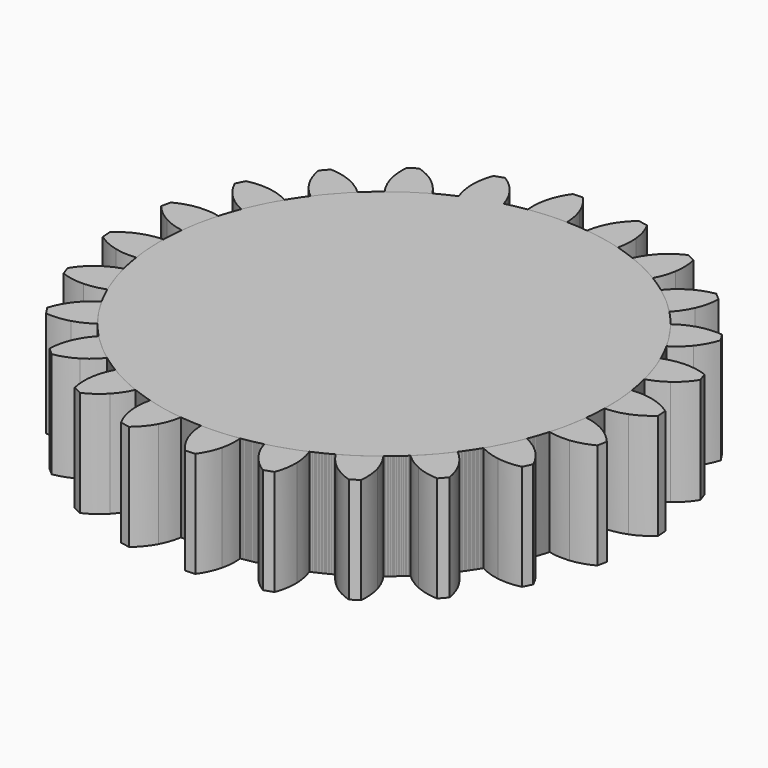
from build123d import *

# Parameters (mm, degrees)
F1_DEPTH = 1
F2_COUNT = 24


with BuildPart() as f1:
    # F0 (on Top) → F1 (new body)
    with BuildSketch(Plane.XY):
        with BuildLine():
            ThreePointArc((-7.156643, 3.463724), (-8.222693, -0.230544), (-4.727638, 1.372164))
            ThreePointArc((-4.727638, 1.372164), (-5.333622, 2.854086), (-6.804323, 3.486817))
            ThreePointArc((-6.804323, 3.486817), (-6.980966, 3.482635), (-7.156643, 3.463724))
        make_face()
        with BuildLine():
            ThreePointArc((-7.156643, 3.463724), (-6.980966, 3.482635), (-6.804323, 3.486817))
            ThreePointArc((-6.804323, 3.486817), (-6.814962, 3.586161), (-6.842638, 3.682164))
            ThreePointArc((-6.842638, 3.682164), (-6.892395, 3.781489), (-6.960324, 3.869392))
            Line((-6.960324, 3.869392), (-7.051912, 3.863389))
            ThreePointArc((-7.051912, 3.863389), (-7.107786, 3.767372), (-7.144153, 3.662401))
            ThreePointArc((-7.144153, 3.662401), (-7.159061, 3.563608), (-7.156643, 3.463724))
        make_face()
    extrude(amount=F1_DEPTH)


with BuildPart() as f2_1:
    # F2: instance of F1
    add(f1.part.rotate(Axis((-6.842638, 1.372164, 0), (0, 0, -1)), 1 * 360 / F2_COUNT))


with BuildPart() as f2_2:
    # F2: instance of F1
    add(f1.part.rotate(Axis((-6.842638, 1.372164, 0), (0, 0, -1)), 2 * 360 / F2_COUNT))


with BuildPart() as f2_3:
    # F2: instance of F1
    add(f1.part.rotate(Axis((-6.842638, 1.372164, 0), (0, 0, -1)), 3 * 360 / F2_COUNT))


with BuildPart() as f2_4:
    # F2: instance of F1
    add(f1.part.rotate(Axis((-6.842638, 1.372164, 0), (0, 0, -1)), 4 * 360 / F2_COUNT))


with BuildPart() as f2_5:
    # F2: instance of F1
    add(f1.part.rotate(Axis((-6.842638, 1.372164, 0), (0, 0, -1)), 5 * 360 / F2_COUNT))


with BuildPart() as f2_6:
    # F2: instance of F1
    add(f1.part.rotate(Axis((-6.842638, 1.372164, 0), (0, 0, -1)), 6 * 360 / F2_COUNT))


with BuildPart() as f2_7:
    # F2: instance of F1
    add(f1.part.rotate(Axis((-6.842638, 1.372164, 0), (0, 0, -1)), 7 * 360 / F2_COUNT))


with BuildPart() as f2_8:
    # F2: instance of F1
    add(f1.part.rotate(Axis((-6.842638, 1.372164, 0), (0, 0, -1)), 8 * 360 / F2_COUNT))


with BuildPart() as f2_9:
    # F2: instance of F1
    add(f1.part.rotate(Axis((-6.842638, 1.372164, 0), (0, 0, -1)), 9 * 360 / F2_COUNT))


with BuildPart() as f2_10:
    # F2: instance of F1
    add(f1.part.rotate(Axis((-6.842638, 1.372164, 0), (0, 0, -1)), 10 * 360 / F2_COUNT))


with BuildPart() as f2_11:
    # F2: instance of F1
    add(f1.part.rotate(Axis((-6.842638, 1.372164, 0), (0, 0, -1)), 11 * 360 / F2_COUNT))


with BuildPart() as f2_12:
    # F2: instance of F1
    add(f1.part.rotate(Axis((-6.842638, 1.372164, 0), (0, 0, -1)), 12 * 360 / F2_COUNT))


with BuildPart() as f2_13:
    # F2: instance of F1
    add(f1.part.rotate(Axis((-6.842638, 1.372164, 0), (0, 0, -1)), 13 * 360 / F2_COUNT))


with BuildPart() as f2_14:
    # F2: instance of F1
    add(f1.part.rotate(Axis((-6.842638, 1.372164, 0), (0, 0, -1)), 14 * 360 / F2_COUNT))


with BuildPart() as f2_15:
    # F2: instance of F1
    add(f1.part.rotate(Axis((-6.842638, 1.372164, 0), (0, 0, -1)), 15 * 360 / F2_COUNT))


with BuildPart() as f2_16:
    # F2: instance of F1
    add(f1.part.rotate(Axis((-6.842638, 1.372164, 0), (0, 0, -1)), 16 * 360 / F2_COUNT))


with BuildPart() as f2_17:
    # F2: instance of F1
    add(f1.part.rotate(Axis((-6.842638, 1.372164, 0), (0, 0, -1)), 17 * 360 / F2_COUNT))


with BuildPart() as f2_18:
    # F2: instance of F1
    add(f1.part.rotate(Axis((-6.842638, 1.372164, 0), (0, 0, -1)), 18 * 360 / F2_COUNT))


with BuildPart() as f2_19:
    # F2: instance of F1
    add(f1.part.rotate(Axis((-6.842638, 1.372164, 0), (0, 0, -1)), 19 * 360 / F2_COUNT))


with BuildPart() as f2_20:
    # F2: instance of F1
    add(f1.part.rotate(Axis((-6.842638, 1.372164, 0), (0, 0, -1)), 20 * 360 / F2_COUNT))


with BuildPart() as f2_21:
    # F2: instance of F1
    add(f1.part.rotate(Axis((-6.842638, 1.372164, 0), (0, 0, -1)), 21 * 360 / F2_COUNT))


with BuildPart() as f2_22:
    # F2: instance of F1
    add(f1.part.rotate(Axis((-6.842638, 1.372164, 0), (0, 0, -1)), 22 * 360 / F2_COUNT))


with BuildPart() as f2_23:
    # F2: instance of F1
    add(f1.part.rotate(Axis((-6.842638, 1.372164, 0), (0, 0, -1)), 23 * 360 / F2_COUNT))


solid = Compound([f1.part, f2_1.part, f2_2.part, f2_3.part, f2_4.part, f2_5.part, f2_6.part, f2_7.part, f2_8.part, f2_9.part, f2_10.part, f2_11.part, f2_12.part, f2_13.part, f2_14.part, f2_15.part, f2_16.part, f2_17.part, f2_18.part, f2_19.part, f2_20.part, f2_21.part, f2_22.part, f2_23.part])
